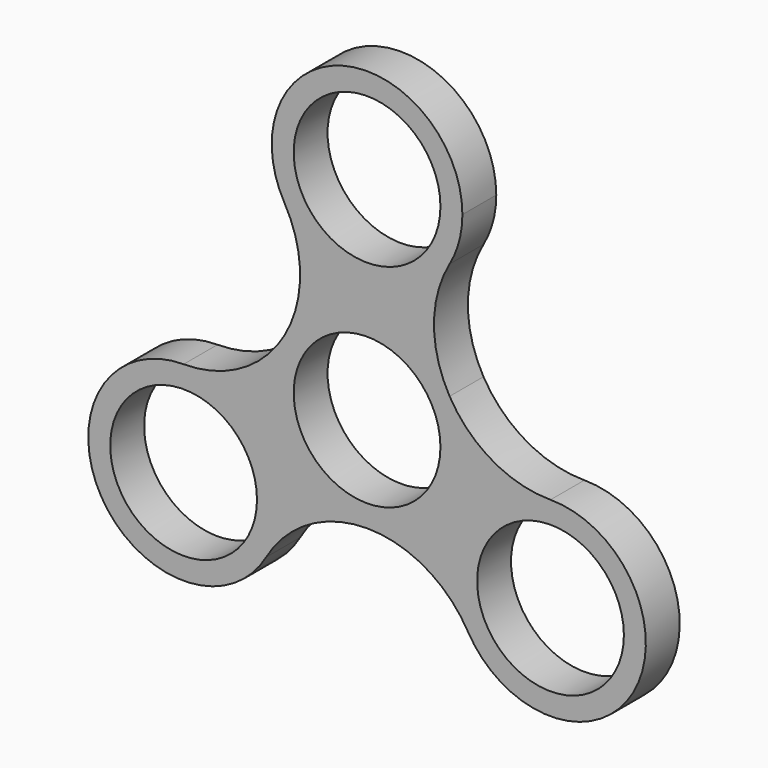
from build123d import *

# Parameters (mm, degrees)
F0_R     = 10.9982
F1_DEPTH = 6.35


with BuildPart() as f1:
    # F0 (on Front) → F1 (new body)
    with BuildSketch(Plane.XZ):
        with BuildLine():
            ThreePointArc((-15.1229686136, -23.01875), (-8.7312500094, -16.6270313918), (-2.17e-08, -14.2875))
            ThreePointArc((-2.17e-08, -14.2875), (-12.3733380699, -7.1437498037), (-12.3733377407, 7.1437503739))
            ThreePointArc((-12.3733377407, 7.1437503739), (-18.7650563832, 0.7520314943), (-27.4963065702, -1.5875))
            ThreePointArc((-27.4963065702, -1.5875), (-17.393518434, -5.7722118638), (-13.2088065702, -15.875))
            ThreePointArc((-13.2088065702, -15.875), (-13.6956413271, -19.5728771069), (-15.1229686136, -23.01875))
        make_face()
        with BuildLine():
            ThreePointArc((-27.4963065702, -1.5875), (-39.8696445267, -23.01875), (-15.1229686136, -23.01875))
            ThreePointArc((-15.1229686136, -23.01875), (-13.6956413271, -19.5728771069), (-13.2088065702, -15.875))
            ThreePointArc((-13.2088065702, -15.875), (-17.393518434, -5.7722118638), (-27.4963065702, -1.5875))
        make_face()
        with Locations((-27.4963065702, -15.875)):
            Circle(F0_R, mode=Mode.SUBTRACT)
        with BuildLine():
            ThreePointArc((-2.17e-08, -14.2875), (10.1027881285, -10.1027881439), (14.2875, 0))
            ThreePointArc((14.2875, 0), (13.8006652147, 3.697877213), (12.3733378467, 7.1437501903))
            ThreePointArc((12.3733378467, 7.1437501903), (1.06e-07, 14.2875), (-12.3733377407, 7.1437503739))
            ThreePointArc((-12.3733377407, 7.1437503739), (-12.3733380699, -7.1437498037), (-2.17e-08, -14.2875))
        make_face()
        Circle(F0_R, mode=Mode.SUBTRACT)
        with BuildLine():
            ThreePointArc((-12.3733377407, 7.1437503739), (1.06e-07, 14.2875), (12.3733378467, 7.1437501903))
            ThreePointArc((12.3733378467, 7.1437501903), (10.0338065702, 15.8750001099), (12.3733379566, 24.60625))
            ThreePointArc((12.3733379566, 24.60625), (0, 17.4625), (-12.3733379566, 24.60625))
            ThreePointArc((-12.3733379566, 24.60625), (-10.0338065702, 15.8750002159), (-12.3733377407, 7.1437503739))
        make_face()
        with BuildLine():
            ThreePointArc((-12.3733379566, 24.60625), (0, 17.4625), (12.3733379566, 24.60625))
            ThreePointArc((12.3733379566, 24.60625), (13.8006652431, 28.0521228931), (14.2875, 31.75))
            ThreePointArc((14.2875, 31.75), (-3.6978771069, 45.5506652431), (-12.3733379566, 24.60625))
        make_face()
        with Locations((0, 31.75)):
            Circle(F0_R, mode=Mode.SUBTRACT)
        with BuildLine():
            ThreePointArc((41.7838065702, -15.875), (37.5990947064, -5.7722118638), (27.4963065702, -1.5875))
            ThreePointArc((27.4963065702, -1.5875), (15.1229686136, -8.73125), (15.1229686136, -23.01875))
            ThreePointArc((15.1229686136, -23.01875), (31.1941836771, -29.6756652431), (41.7838065702, -15.875))
        make_face()
        with Locations((27.4963065702, -15.875)):
            Circle(F0_R, mode=Mode.SUBTRACT)
        with BuildLine():
            ThreePointArc((12.3733378467, 7.1437501903), (13.8006652147, 3.697877213), (14.2875, 0))
            ThreePointArc((14.2875, 0), (10.1027881285, -10.1027881439), (-2.17e-08, -14.2875))
            ThreePointArc((-2.17e-08, -14.2875), (8.7312499906, -16.627031381), (15.1229686136, -23.01875))
            ThreePointArc((15.1229686136, -23.01875), (15.1229686136, -8.73125), (27.4963065702, -1.5875))
            ThreePointArc((27.4963065702, -1.5875), (18.765056475, 0.7520314413), (12.3733378467, 7.1437501903))
        make_face()
    extrude(amount=F1_DEPTH)


solid = f1.part
